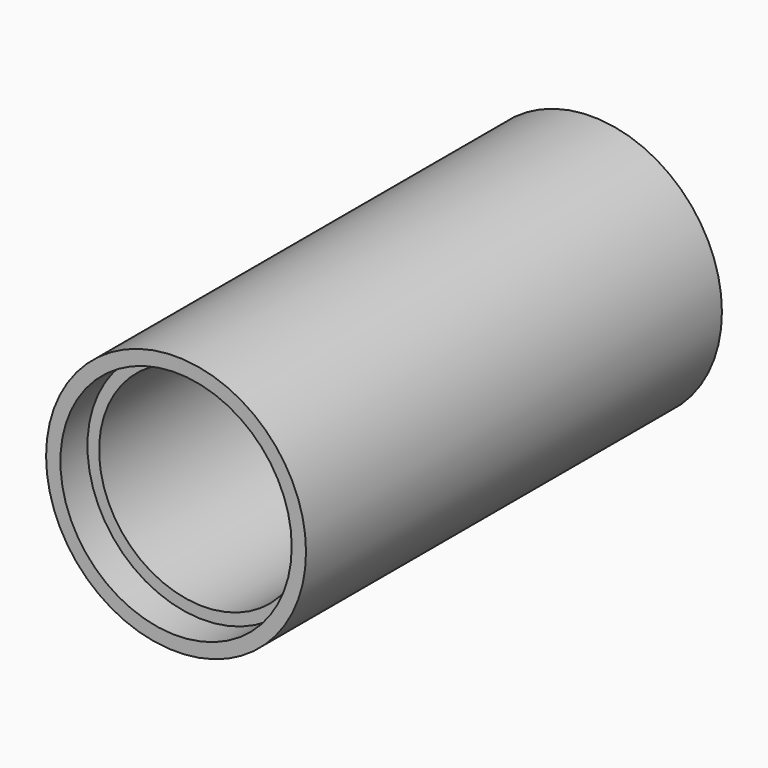
from build123d import *

# Parameters (mm, degrees)
F0_R     = 20
F1_DEPTH = 80
F2_T     = -4
F3_R     = 17.798556
F4_DEPTH = 5.2


with BuildPart() as f1:
    # F0 (on Front) → F1 (new body)
    with BuildSketch(Plane.XZ):
        Circle(F0_R)
    extrude(amount=F1_DEPTH)

    # F2
    f2_openings = [f1.faces().sort_by_distance(p)[0] for p in [
        (0, -80, 0),
    ]]
    offset(amount=F2_T, openings=f2_openings)

    # F3 (on face) → F4 (cut)
    with BuildSketch(Plane.XZ.offset(80)):
        Circle(F3_R)
    extrude(amount=-F4_DEPTH, mode=Mode.SUBTRACT)


solid = f1.part
